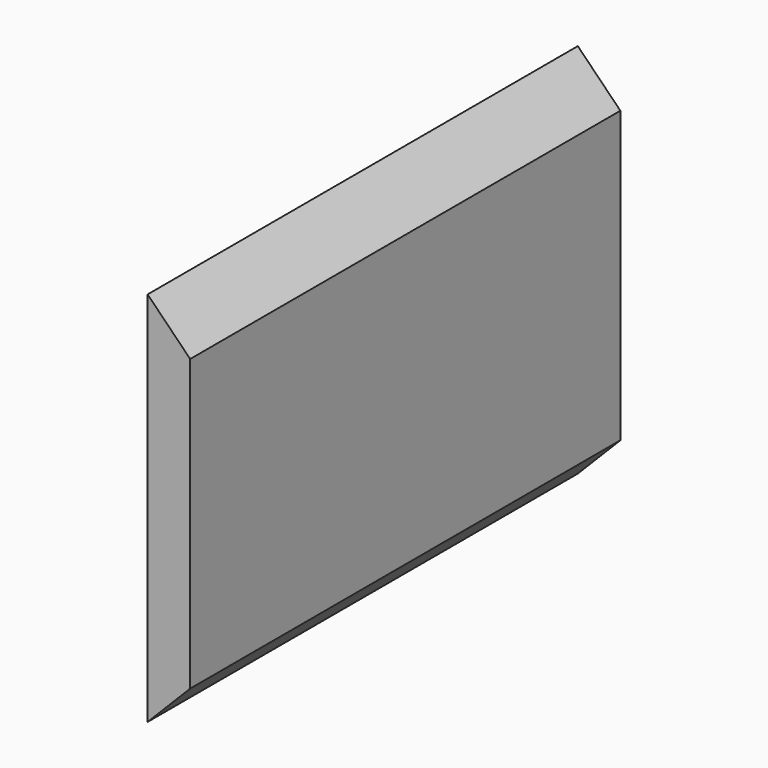
from build123d import *

# Parameters (mm, degrees)
F0_W     = 2.0093368366
F0_H     = 6.8891588598
F1_DEPTH = 25.4
F2_W     = 2.0093368366
F2_H     = 6.8161971867
F3_DEPTH = 25.4
F5_DEPTH = 25.4


with BuildPart() as f1:
    # F0 (on Front) → F1 (new body)
    with BuildSketch(Plane.XZ):
        with Locations((-14.7031224333, 14.6663570777)):
            Rectangle(F0_W, F0_H)
    extrude(amount=F1_DEPTH)

    # F2 (on face) → F3 (join)
    with BuildSketch(Plane.XZ.offset(25.4)):
        with Locations((-14.7031224333, 21.5190351009)):
            Rectangle(F2_W, F2_H)
    extrude(amount=-F3_DEPTH)

    # F4 (on face) → F5 (join)
    with BuildSketch(Plane.XZ.offset(25.4)):
        Polygon((-15.7077908516, 26.9609466195), (-15.7077908516, 24.9271336943), (-13.698454015, 24.9271336943), align=None)
        Polygon((-13.698454015, 11.2217776477), (-15.7077908516, 11.2217776477), (-15.7077908516, 9.18235071), align=None)
    extrude(amount=-F5_DEPTH)


solid = f1.part
